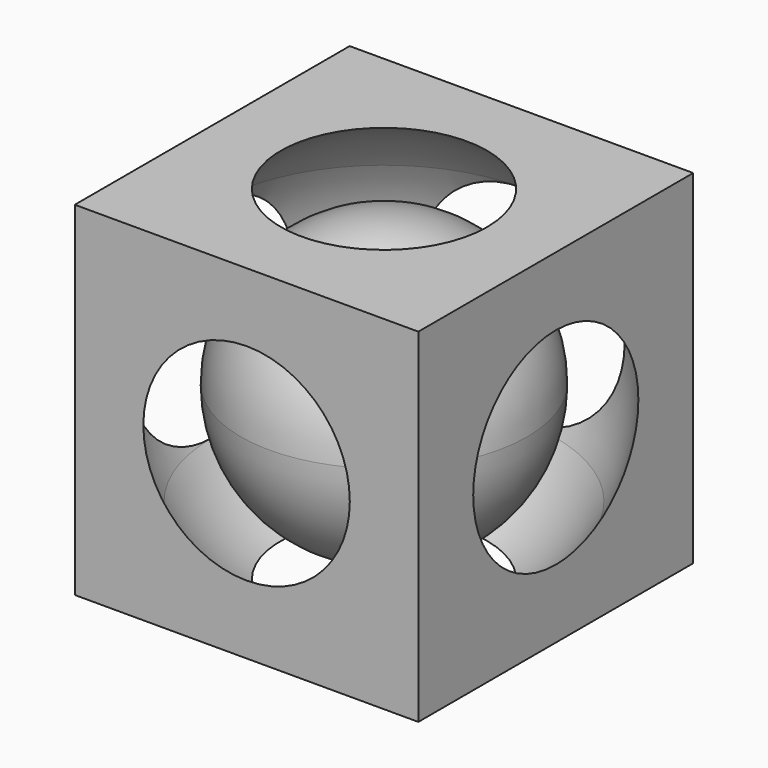
from build123d import *

# Parameters (mm, degrees)
F1_DEPTH = 7.62


with BuildPart() as f1:
    # F0 (on Front) → F1 (new body, symmetric)
    with BuildSketch(Plane.XZ):
        with BuildLine():
            ThreePointArc((4.5790501198, 7.62), (6.2861792847, 6.2861792847), (7.62, 4.5790501198))
            Line((7.62, 4.5790501198), (7.62, 7.62))
            Line((7.62, 7.62), (4.5790501198, 7.62))
        make_face()
        with BuildLine():
            Line((0, -7.62), (4.5790501198, -7.62))
            ThreePointArc((4.5790501198, -7.62), (6.2861792847, -6.2861792847), (7.62, -4.5790501198))
            Line((7.62, -4.5790501198), (7.62, 4.5790501198))
            ThreePointArc((7.62, 4.5790501198), (6.2861792847, 6.2861792847), (4.5790501198, 7.62))
            Line((4.5790501198, 7.62), (0, 7.62))
            Line((0, 7.62), (0, 6.35))
            ThreePointArc((0, 6.35), (4.4901280605, 4.4901280605), (6.35, 0))
            ThreePointArc((6.35, 0), (4.4901280605, -4.4901280605), (0, -6.35))
            Line((0, -6.35), (0, -7.62))
        make_face()
        with BuildLine():
            Line((4.5790501198, -7.62), (7.62, -7.62))
            Line((7.62, -7.62), (7.62, -4.5790501198))
            ThreePointArc((7.62, -4.5790501198), (6.2861792847, -6.2861792847), (4.5790501198, -7.62))
        make_face()
        with BuildLine():
            Line((-4.5790501198, -7.62), (0, -7.62))
            Line((0, -7.62), (0, -6.35))
            ThreePointArc((0, -6.35), (-6.35, 0), (0, 6.35))
            Line((0, 6.35), (0, 7.62))
            Line((0, 7.62), (-4.5790501198, 7.62))
            ThreePointArc((-4.5790501198, 7.62), (-6.2861792847, 6.2861792847), (-7.62, 4.5790501198))
            Line((-7.62, 4.5790501198), (-7.62, -4.5790501198))
            ThreePointArc((-7.62, -4.5790501198), (-6.2861792847, -6.2861792847), (-4.5790501198, -7.62))
        make_face()
        with BuildLine():
            Line((-7.62, 7.62), (-7.62, 4.5790501198))
            ThreePointArc((-7.62, 4.5790501198), (-6.2861792847, 6.2861792847), (-4.5790501198, 7.62))
            Line((-4.5790501198, 7.62), (-7.62, 7.62))
        make_face()
        with BuildLine():
            Line((-7.62, -7.62), (-4.5790501198, -7.62))
            ThreePointArc((-4.5790501198, -7.62), (-6.2861792847, -6.2861792847), (-7.62, -4.5790501198))
            Line((-7.62, -4.5790501198), (-7.62, -7.62))
        make_face()
        with BuildLine():
            ThreePointArc((0, 6.35), (-6.35, 0), (0, -6.35))
            Line((0, -6.35), (0, -4.572))
            ThreePointArc((0, -4.572), (-4.572, 0), (0, 4.572))
            Line((0, 4.572), (0, 6.35))
        make_face()
        with BuildLine():
            Line((0, -4.572), (0, -6.35))
            ThreePointArc((0, -6.35), (4.4901280605, -4.4901280605), (6.35, 0))
            ThreePointArc((6.35, 0), (4.4901280605, 4.4901280605), (0, 6.35))
            Line((0, 6.35), (0, 4.572))
            ThreePointArc((0, 4.572), (3.2328922036, 3.2328922036), (4.572, 0))
            ThreePointArc((4.572, 0), (3.2328922036, -3.2328922036), (0, -4.572))
        make_face()
        with BuildLine():
            Line((0, 4.572), (0, -4.572))
            ThreePointArc((0, -4.572), (3.2328922036, -3.2328922036), (4.572, 0))
            ThreePointArc((4.572, 0), (3.2328922036, 3.2328922036), (0, 4.572))
        make_face()
        with BuildLine():
            ThreePointArc((0, 4.572), (-4.572, 0), (0, -4.572))
            Line((0, -4.572), (0, 4.572))
        make_face()
    extrude(amount=F1_DEPTH, both=True)

    # F0 (on Front) → F2 (revolve, cut)
    with BuildSketch(Plane.XZ):
        with BuildLine():
            ThreePointArc((0, -8.89), (2.3759524406, -8.5666183527), (4.5790501198, -7.62))
            Line((4.5790501198, -7.62), (0, -7.62))
            Line((0, -7.62), (0, -8.89))
        make_face()
        with BuildLine():
            Line((0, 7.62), (4.5790501198, 7.62))
            ThreePointArc((4.5790501198, 7.62), (2.3759524406, 8.5666183527), (0, 8.89))
            Line((0, 8.89), (0, 7.62))
        make_face()
        with BuildLine():
            Line((0, -7.62), (4.5790501198, -7.62))
            ThreePointArc((4.5790501198, -7.62), (6.2861792847, -6.2861792847), (7.62, -4.5790501198))
            Line((7.62, -4.5790501198), (7.62, 4.5790501198))
            ThreePointArc((7.62, 4.5790501198), (6.2861792847, 6.2861792847), (4.5790501198, 7.62))
            Line((4.5790501198, 7.62), (0, 7.62))
            Line((0, 7.62), (0, 6.35))
            ThreePointArc((0, 6.35), (4.4901280605, 4.4901280605), (6.35, 0))
            ThreePointArc((6.35, 0), (4.4901280605, -4.4901280605), (0, -6.35))
            Line((0, -6.35), (0, -7.62))
        make_face()
        with BuildLine():
            Line((7.62, 4.5790501198), (7.62, -4.5790501198))
            ThreePointArc((7.62, -4.5790501198), (8.5666183527, -2.3759524406), (8.89, 0))
            ThreePointArc((8.89, 0), (8.5666183527, 2.3759524406), (7.62, 4.5790501198))
        make_face()
        with BuildLine():
            Line((0, 4.572), (0, -4.572))
            ThreePointArc((0, -4.572), (3.2328922036, -3.2328922036), (4.572, 0))
            ThreePointArc((4.572, 0), (3.2328922036, 3.2328922036), (0, 4.572))
        make_face()
    revolve(axis=Axis((0, 0, 1.2539907621), (0, 0, -1)), mode=Mode.SUBTRACT)


solid = f1.part
